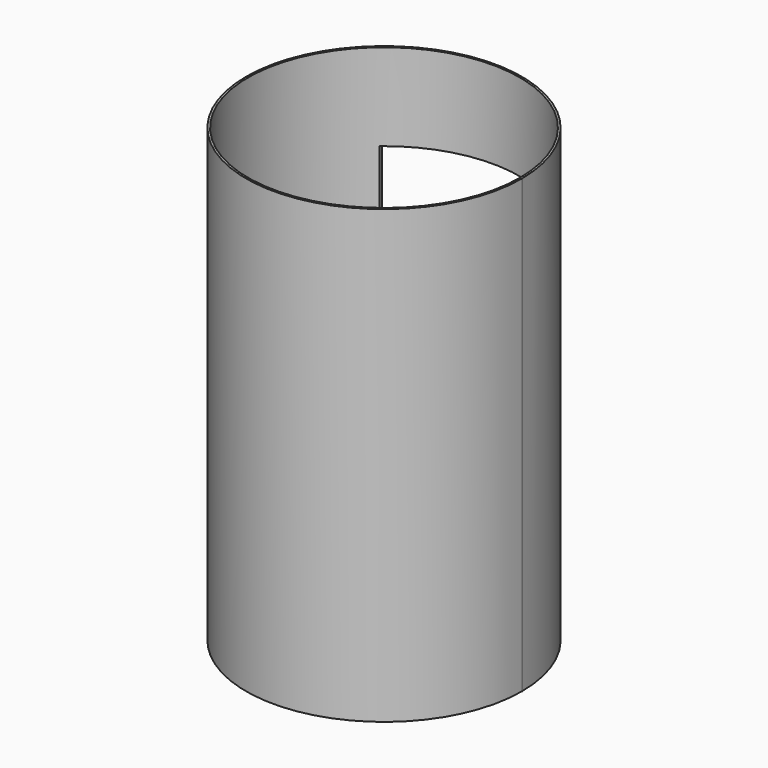
from build123d import *

# Parameters (mm, degrees)
F0_R     = 279.4
F0_R_2   = 275.209
F1_DEPTH = 914.4
F2_W     = 327.650912
F2_H     = 123.030126
F3_DEPTH = 279.401
F4_R     = 2.070551
F5_DEPTH = 914.4


with BuildPart() as f1:
    # F0 (on Top) → F1 (new body)
    with BuildSketch(Plane.XY):
        Circle(F0_R)
        Circle(F0_R_2, mode=Mode.SUBTRACT)
    extrude(amount=F1_DEPTH)

    # F2 (on Front) → F3 (cut, through all)
    with BuildSketch(Plane.XZ):
        with Locations((-13.302971, 676.583201)):
            Rectangle(F2_W, F2_H)
    extrude(amount=-F3_DEPTH, mode=Mode.SUBTRACT)

    # F4 (on Top) → F5 (join)
    with BuildSketch(Plane.XY):
        with Locations((277.640581, 0)):
            Circle(F4_R)
    extrude(amount=F5_DEPTH)


solid = f1.part
